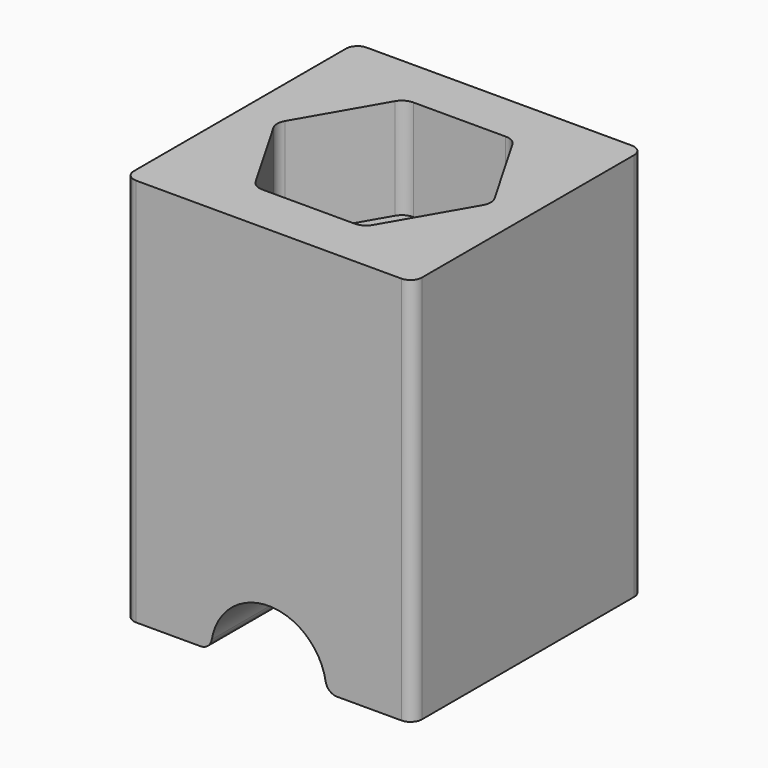
from build123d import *

# Parameters (mm, degrees)
F0_W     = 20
F0_H     = 20
F1_DEPTH = 2
F2_W     = 20
F2_H     = 20
F3_DEPTH = 25
F5_W     = 9
F5_H     = 9
F6_DEPTH = 7
F7_R     = 1
F8_DEPTH = 18
F9_DEPTH = 24.8
F10_R    = 0.8
F11_R    = 0.8


with BuildPart() as f1:
    # F0 (on Top) → F1 (new body)
    with BuildSketch(Plane.XY):
        Rectangle(F0_W, F0_H)
    extrude(amount=F1_DEPTH)

    # F2 (on face) → F3 (join)
    with BuildSketch(Plane.XY.offset(2)):
        Rectangle(F2_W, F2_H)
        Polygon((0, -4.5), (-4.5, -4.5), (-4.5, 0), (-4.5, 4.5), (0, 4.5), (4.5, 4.5), (4.5, 0), (4.5, -4.5), align=None, mode=Mode.SUBTRACT)
    extrude(amount=F3_DEPTH)

    # F5 (on face) → F6 (cut)
    with BuildSketch(Plane.XY.offset(27)):
        Polygon((3.7816442632, -6.55), (7.5632885264, 0), (3.7816442632, 6.55), (-3.7816442632, 6.55), (-7.5632885264, 0), (-3.7816442632, -6.55), align=None)
        Rectangle(F5_W, F5_H, mode=Mode.SUBTRACT)
    extrude(amount=-F6_DEPTH, mode=Mode.SUBTRACT)

    # F7
    f7_edges = [f1.edges().sort_by_distance(p)[0] for p in [
        (3.781644, -6.55, 23.5),
        (7.563289, 0, 23.5),
        (3.781644, 6.55, 23.5),
        (-3.781644, 6.55, 23.5),
        (-7.563289, 0, 23.5),
        (-3.781644, -6.55, 23.5),
    ]]
    fillet(f7_edges, radius=F7_R)

    # F2 (on face) → F8 (join)
    with BuildSketch(Plane.XY.offset(2)):
        Rectangle(F2_W, F2_H)
        Polygon((0, -4.5), (-4.5, -4.5), (-4.5, 0), (-4.5, 4.5), (0, 4.5), (4.5, 4.5), (4.5, 0), (4.5, -4.5), align=None, mode=Mode.SUBTRACT)
        with BuildLine():
            ThreePointArc((4.5, 0), (3.1819805153, -3.1819805153), (0, -4.5))
            Line((0, -4.5), (4.5, -4.5))
            Line((4.5, -4.5), (4.5, 0))
        make_face()
        with BuildLine():
            Line((-4.5, 0), (-4.5, -4.5))
            Line((-4.5, -4.5), (0, -4.5))
            ThreePointArc((0, -4.5), (-3.1819805153, -3.1819805153), (-4.5, 0))
        make_face()
        with BuildLine():
            Line((-4.5, 4.5), (-4.5, 0))
            ThreePointArc((-4.5, 0), (-3.1819805153, 3.1819805153), (0, 4.5))
            Line((0, 4.5), (-4.5, 4.5))
        make_face()
        with BuildLine():
            ThreePointArc((0, 4.5), (3.1819805153, 3.1819805153), (4.5, 0))
            Line((4.5, 0), (4.5, 4.5))
            Line((4.5, 4.5), (0, 4.5))
        make_face()
    extrude(amount=F8_DEPTH)

    # F4 (on face) → F9 (cut, symmetric)
    with BuildSketch(Plane.XZ.offset(10)):
        with BuildLine():
            Line((-4.0082180343, 0), (4.0082180343, 0))
            ThreePointArc((4.0082180343, 0), (0, 4.0082180343), (-4.0082180343, 0))
        make_face()
    extrude(amount=F9_DEPTH, both=True, mode=Mode.SUBTRACT)

    # F10
    f10_edges = [f1.edges().sort_by_distance(p)[0] for p in [
        (4.008218, 0, 0),
        (-4.008218, 0, 0),
    ]]
    fillet(f10_edges, radius=F10_R)

    # F11
    f11_edges = [f1.edges().sort_by_distance(p)[0] for p in [
        (10, -10, 13.5),
        (-10, -10, 13.5),
        (-10, 10, 13.5),
        (10, 10, 13.5),
    ]]
    fillet(f11_edges, radius=F11_R)


solid = f1.part
